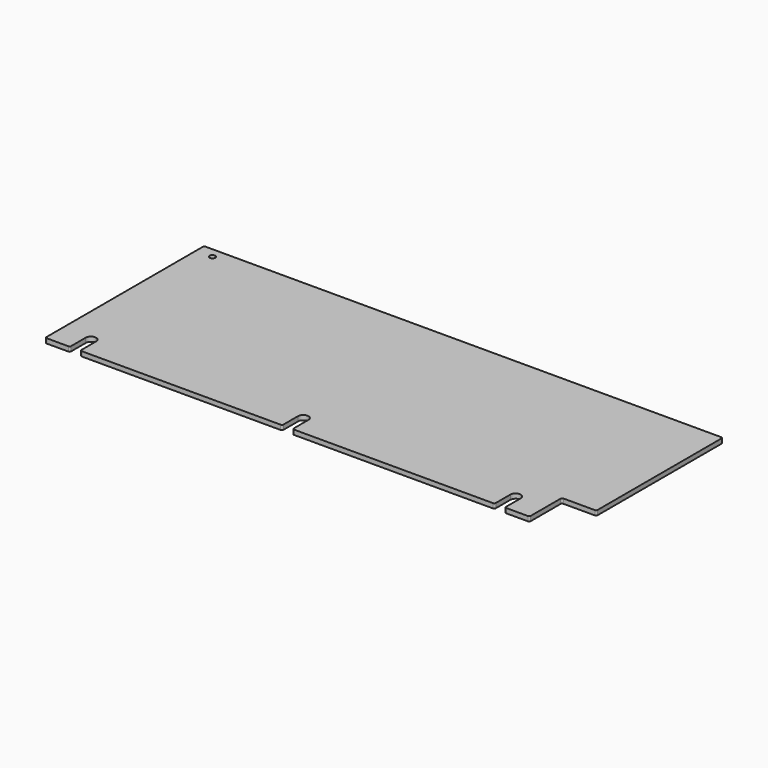
from build123d import *

# Parameters (mm, degrees)
SKETCH_R  = 1.8288
PAD_DEPTH = 3


with BuildPart() as part:
    # Sketch → Pad (new body)
    with BuildSketch(Plane.XY):
        with BuildLine():
            Line((0, 126), (0, 1))
            ThreePointArc((0, 1), (0.292893, 0.292893), (1, 0))
            Line((1, 0), (14.748, 0))
            ThreePointArc((14.748, 0), (15.455107, 0.292893), (15.748, 1))
            Line((15.748, 12.7), (15.748, 1))
            ThreePointArc((22.352, 12.7), (19.05, 16.002), (15.748, 12.7))
            Line((22.352, 12.7), (22.352, 1))
            ThreePointArc((22.352, 1), (22.644893, 0.292893), (23.352, 0))
            Line((23.352, 0), (150.6479, 0))
            ThreePointArc((150.6479, 0), (151.355007, 0.292893), (151.6479, 1))
            Line((151.6479, 12.7), (151.6479, 1))
            ThreePointArc((158.2519, 12.7), (154.9499, 16.002), (151.6479, 12.7))
            Line((158.2519, 12.7), (158.2519, 1))
            ThreePointArc((158.2519, 1), (158.544793, 0.292893), (159.2519, 0))
            Line((159.2519, 0), (286.5478, 0))
            ThreePointArc((286.5478, 0), (287.254907, 0.292893), (287.5478, 1))
            Line((287.5478, 12.7), (287.5478, 1))
            ThreePointArc((294.1518, 12.7), (290.8498, 16.002), (287.5478, 12.7))
            Line((294.1518, 12.7), (294.1518, 1))
            ThreePointArc((294.1518, 1), (294.444693, 0.292893), (295.1518, 0))
            Line((295.1518, 0), (308.8998, 0))
            ThreePointArc((308.8998, 0), (309.606907, 0.292893), (309.8998, 1))
            Line((309.8998, 1), (309.8998, 24.9))
            ThreePointArc((310.8998, 25.9), (310.192693, 25.607107), (309.8998, 24.9))
            Line((310.8998, 25.9), (330.9999, 25.9))
            ThreePointArc((330.9999, 25.9), (331.707007, 26.192893), (331.9999, 26.9))
            Line((331.9999, 26.9), (331.9999, 126))
            ThreePointArc((331.9999, 126), (331.707007, 126.707107), (330.9999, 127))
            Line((330.9999, 127), (1, 127))
            ThreePointArc((1, 127), (0.292893, 126.707107), (0, 126))
        make_face()
        with Locations((10.46, 120.65)):
            Circle(SKETCH_R, mode=Mode.SUBTRACT)
    extrude(amount=PAD_DEPTH)


solid = part.part
